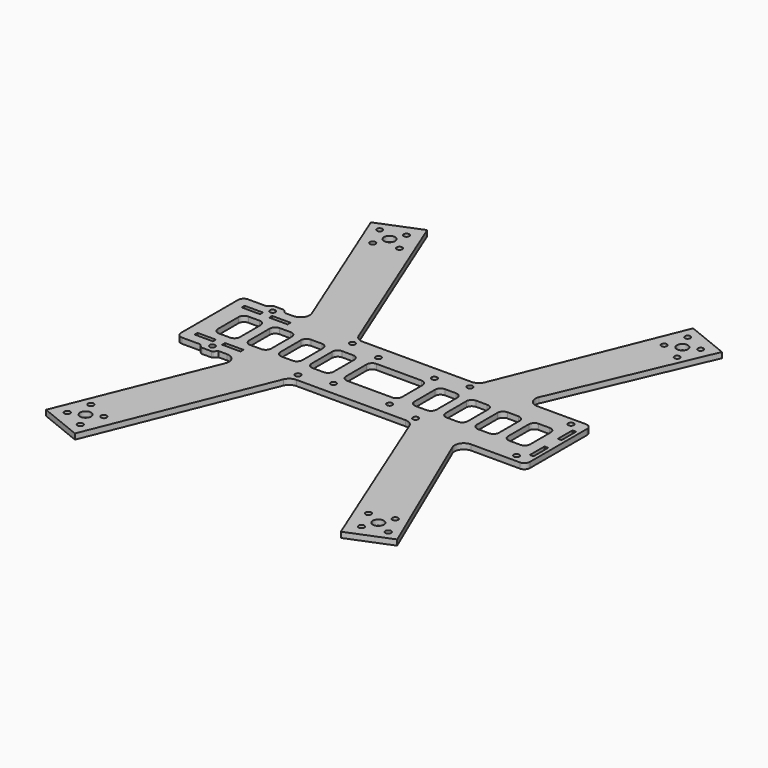
from build123d import *

# Parameters (mm, degrees)
F0_R     = 1.55
F0_R_2   = 3
F0_W     = 10
F0_H     = 2
F0_R_3   = 1.5
F0_W_2   = 2
F0_H_2   = 10
F1_DEPTH = 3


with BuildPart() as f1:
    # F0 (on Top) → F1 (new body)
    with BuildSketch(Plane.XY):
        with BuildLine():
            ThreePointArc((3, 45), (0.87868, 44.12132), (0, 42))
            Line((0, 42), (0, 3))
            ThreePointArc((0, 3), (0.87868, 0.87868), (3, 0))
            Line((3, 0), (13, 0))
            Line((13, 0), (14.707107, -1.707107))
            ThreePointArc((14.707107, -1.707107), (15.03153, -1.92388), (15.414214, -2))
            Line((15.414214, -2), (20.585786, -2))
            ThreePointArc((20.585786, -2), (20.96847, -1.92388), (21.292893, -1.707107))
            Line((21.292893, -1.707107), (23, 0))
            Line((23, 0), (27.587195, 0))
            ThreePointArc((27.587195, 0), (31.732383, -2.204035), (32.223114, -6.873033))
            Line((32.223114, -6.873033), (-0.54992, -87.98914))
            Line((-0.54992, -87.98914), (22.629676, -97.354305))
            Line((22.629676, -97.354305), (60.699992, -3.126967))
            ThreePointArc((60.699992, -3.126967), (62.539947, -0.854812), (65.335911, 0))
            Line((65.335911, 0), (124.664089, 0))
            ThreePointArc((124.664089, 0), (127.460053, -0.854812), (129.300008, -3.126967))
            Line((129.300008, -3.126967), (167.370324, -97.354305))
            Line((167.370324, -97.354305), (190.54992, -87.98914))
            Line((190.54992, -87.98914), (155.834757, -6.96923))
            ThreePointArc((155.834757, -6.96923), (156.256544, -2.247378), (160.430639, 0))
            Line((160.430639, 0), (187, 0))
            ThreePointArc((187, 0), (189.12132, 0.87868), (190, 3))
            Line((190, 3), (190, 42))
            ThreePointArc((190, 42), (189.12132, 44.12132), (187, 45))
            Line((187, 45), (160.430639, 45))
            ThreePointArc((160.430639, 45), (156.256544, 47.247378), (155.834757, 51.96923))
            Line((155.834757, 51.96923), (190.54992, 132.98914))
            Line((190.54992, 132.98914), (167.370324, 142.354305))
            Line((167.370324, 142.354305), (129.300008, 48.126967))
            ThreePointArc((129.300008, 48.126967), (127.460053, 45.854812), (124.664089, 45))
            Line((124.664089, 45), (65.335911, 45))
            ThreePointArc((65.335911, 45), (62.539947, 45.854812), (60.699992, 48.126967))
            Line((60.699992, 48.126967), (22.629676, 142.354305))
            Line((22.629676, 142.354305), (-0.54992, 132.98914))
            Line((-0.54992, 132.98914), (32.223114, 51.873033))
            ThreePointArc((32.223114, 51.873033), (31.732383, 47.204035), (27.587195, 45))
            Line((27.587195, 45), (23, 45))
            Line((23, 45), (21.292893, 46.707107))
            ThreePointArc((21.292893, 46.707107), (20.96847, 46.92388), (20.585786, 47))
            Line((20.585786, 47), (15.414214, 47))
            ThreePointArc((15.414214, 47), (15.03153, 46.92388), (14.707107, 46.707107))
            Line((14.707107, 46.707107), (13, 45))
            Line((13, 45), (3, 45))
        make_face()
        with Locations((8.064668, -84.306511)):
            Circle(F0_R, mode=Mode.SUBTRACT)
        with Locations((19.330003, -89.535489)):
            Circle(F0_R, mode=Mode.SUBTRACT)
        with Locations((11.300256, -72.315641)):
            Circle(F0_R, mode=Mode.SUBTRACT)
        with Locations((15.31513, -80.925565)):
            Circle(F0_R_2, mode=Mode.SUBTRACT)
        with Locations((22.565592, -77.544618)):
            Circle(F0_R, mode=Mode.SUBTRACT)
        with Locations((10.5, 6.5)):
            Rectangle(F0_W, F0_H, mode=Mode.SUBTRACT)
        with Locations((18, 2)):
            Circle(F0_R_3, mode=Mode.SUBTRACT)
        with Locations((25.5, 6.5)):
            Rectangle(F0_W, F0_H, mode=Mode.SUBTRACT)
        with Locations((63, 4)):
            Circle(F0_R_3, mode=Mode.SUBTRACT)
        with Locations((79.75, 7.25)):
            Circle(F0_R_3, mode=Mode.SUBTRACT)
        with Locations((166.074946, -76.910691)):
            Circle(F0_R, mode=Mode.SUBTRACT)
        with Locations((171.303924, -88.176027)):
            Circle(F0_R, mode=Mode.SUBTRACT)
        with Locations((183.294794, -84.940438)):
            Circle(F0_R, mode=Mode.SUBTRACT)
        with Locations((174.68487, -80.925565)):
            Circle(F0_R_2, mode=Mode.SUBTRACT)
        with Locations((178.065816, -73.675102)):
            Circle(F0_R, mode=Mode.SUBTRACT)
        with Locations((110.25, 7.25)):
            Circle(F0_R_3, mode=Mode.SUBTRACT)
        with Locations((127, 4)):
            Circle(F0_R_3, mode=Mode.SUBTRACT)
        with Locations((182, 4)):
            Circle(F0_R_3, mode=Mode.SUBTRACT)
        with Locations((187, 13)):
            Rectangle(F0_W_2, F0_H_2, mode=Mode.SUBTRACT)
        with BuildLine():
            Line((22, 29.75), (22, 15.75))
            ThreePointArc((22, 15.75), (21.12132, 13.62868), (19, 12.75))
            Line((19, 12.75), (13, 12.75))
            ThreePointArc((13, 12.75), (10.87868, 13.62868), (10, 15.75))
            Line((10, 15.75), (10, 29.75))
            ThreePointArc((10, 29.75), (10.87868, 31.87132), (13, 32.75))
            Line((13, 32.75), (19, 32.75))
            ThreePointArc((19, 32.75), (21.12132, 31.87132), (22, 29.75))
        make_face(mode=Mode.SUBTRACT)
        with Locations((10.5, 38.5)):
            Rectangle(F0_W, F0_H, mode=Mode.SUBTRACT)
        with Locations((18, 43)):
            Circle(F0_R_3, mode=Mode.SUBTRACT)
        with BuildLine():
            Line((39, 29.75), (39, 15.75))
            ThreePointArc((39, 15.75), (38.12132, 13.62868), (36, 12.75))
            Line((36, 12.75), (30, 12.75))
            ThreePointArc((30, 12.75), (27.87868, 13.62868), (27, 15.75))
            Line((27, 15.75), (27, 29.75))
            ThreePointArc((27, 29.75), (27.87868, 31.87132), (30, 32.75))
            Line((30, 32.75), (36, 32.75))
            ThreePointArc((36, 32.75), (38.12132, 31.87132), (39, 29.75))
        make_face(mode=Mode.SUBTRACT)
        with Locations((25.5, 38.5)):
            Rectangle(F0_W, F0_H, mode=Mode.SUBTRACT)
        with BuildLine():
            Line((44, 15.75), (44, 29.75))
            ThreePointArc((44, 29.75), (44.87868, 31.87132), (47, 32.75))
            Line((47, 32.75), (53, 32.75))
            ThreePointArc((53, 32.75), (55.12132, 31.87132), (56, 29.75))
            Line((56, 29.75), (56, 15.75))
            ThreePointArc((56, 15.75), (55.12132, 13.62868), (53, 12.75))
            Line((53, 12.75), (47, 12.75))
            ThreePointArc((47, 12.75), (44.87868, 13.62868), (44, 15.75))
        make_face(mode=Mode.SUBTRACT)
        with BuildLine():
            Line((61, 15.75), (61, 29.75))
            ThreePointArc((61, 29.75), (61.87868, 31.87132), (64, 32.75))
            Line((64, 32.75), (70, 32.75))
            ThreePointArc((70, 32.75), (72.12132, 31.87132), (73, 29.75))
            Line((73, 29.75), (73, 15.75))
            ThreePointArc((73, 15.75), (72.12132, 13.62868), (70, 12.75))
            Line((70, 12.75), (64, 12.75))
            ThreePointArc((64, 12.75), (61.87868, 13.62868), (61, 15.75))
        make_face(mode=Mode.SUBTRACT)
        with Locations((63, 41)):
            Circle(F0_R_3, mode=Mode.SUBTRACT)
        with Locations((79.75, 37.75)):
            Circle(F0_R_3, mode=Mode.SUBTRACT)
        with Locations((11.934184, 118.675102)):
            Circle(F0_R_3, mode=Mode.SUBTRACT)
        with Locations((15.31513, 125.925565)):
            Circle(F0_R_2, mode=Mode.SUBTRACT)
        with Locations((6.705206, 129.940438)):
            Circle(F0_R_3, mode=Mode.SUBTRACT)
        with Locations((18.696076, 133.176027)):
            Circle(F0_R_3, mode=Mode.SUBTRACT)
        with Locations((23.925054, 121.910691)):
            Circle(F0_R_3, mode=Mode.SUBTRACT)
        with BuildLine():
            ThreePointArc((110.25, 15.75), (109.37132, 13.62868), (107.25, 12.75))
            Line((107.25, 12.75), (82.75, 12.75))
            ThreePointArc((82.75, 12.75), (80.62868, 13.62868), (79.75, 15.75))
            Line((79.75, 15.75), (79.75, 29.75))
            ThreePointArc((79.75, 29.75), (80.62868, 31.87132), (82.75, 32.75))
            Line((82.75, 32.75), (107.25, 32.75))
            ThreePointArc((107.25, 32.75), (109.37132, 31.87132), (110.25, 29.75))
            Line((110.25, 29.75), (110.25, 15.75))
        make_face(mode=Mode.SUBTRACT)
        with Locations((110.25, 37.75)):
            Circle(F0_R_3, mode=Mode.SUBTRACT)
        with BuildLine():
            ThreePointArc((120, 12.75), (117.87868, 13.62868), (117, 15.75))
            Line((117, 15.75), (117, 29.75))
            ThreePointArc((117, 29.75), (117.87868, 31.87132), (120, 32.75))
            Line((120, 32.75), (126, 32.75))
            ThreePointArc((126, 32.75), (128.12132, 31.87132), (129, 29.75))
            Line((129, 29.75), (129, 15.75))
            ThreePointArc((129, 15.75), (128.12132, 13.62868), (126, 12.75))
            Line((126, 12.75), (120, 12.75))
        make_face(mode=Mode.SUBTRACT)
        with BuildLine():
            ThreePointArc((137, 12.75), (134.87868, 13.62868), (134, 15.75))
            Line((134, 15.75), (134, 29.75))
            ThreePointArc((134, 29.75), (134.87868, 31.87132), (137, 32.75))
            Line((137, 32.75), (143, 32.75))
            ThreePointArc((143, 32.75), (145.12132, 31.87132), (146, 29.75))
            Line((146, 29.75), (146, 15.75))
            ThreePointArc((146, 15.75), (145.12132, 13.62868), (143, 12.75))
            Line((143, 12.75), (137, 12.75))
        make_face(mode=Mode.SUBTRACT)
        with Locations((127, 41)):
            Circle(F0_R_3, mode=Mode.SUBTRACT)
        with BuildLine():
            ThreePointArc((154, 12.75), (151.87868, 13.62868), (151, 15.75))
            Line((151, 15.75), (151, 29.75))
            ThreePointArc((151, 29.75), (151.87868, 31.87132), (154, 32.75))
            Line((154, 32.75), (160, 32.75))
            ThreePointArc((160, 32.75), (162.12132, 31.87132), (163, 29.75))
            Line((163, 29.75), (163, 15.75))
            ThreePointArc((163, 15.75), (162.12132, 13.62868), (160, 12.75))
            Line((160, 12.75), (154, 12.75))
        make_face(mode=Mode.SUBTRACT)
        with BuildLine():
            ThreePointArc((180, 15.75), (179.12132, 13.62868), (177, 12.75))
            Line((177, 12.75), (171, 12.75))
            ThreePointArc((171, 12.75), (168.87868, 13.62868), (168, 15.75))
            Line((168, 15.75), (168, 29.75))
            ThreePointArc((168, 29.75), (168.87868, 31.87132), (171, 32.75))
            Line((171, 32.75), (177, 32.75))
            ThreePointArc((177, 32.75), (179.12132, 31.87132), (180, 29.75))
            Line((180, 29.75), (180, 15.75))
        make_face(mode=Mode.SUBTRACT)
        with Locations((187, 32)):
            Rectangle(F0_W_2, F0_H_2, mode=Mode.SUBTRACT)
        with Locations((182, 41)):
            Circle(F0_R_3, mode=Mode.SUBTRACT)
        with Locations((167.434408, 122.544618)):
            Circle(F0_R_3, mode=Mode.SUBTRACT)
        with BuildLine():
            ThreePointArc((177.403793, 127.193419), (177.613758, 126.574883), (177.68487, 125.925565))
            ThreePointArc((177.68487, 125.925565), (171.755982, 125.276246), (177.403793, 127.193419))
        make_face(mode=Mode.SUBTRACT)
        with Locations((178.699744, 117.315641)):
            Circle(F0_R_3, mode=Mode.SUBTRACT)
        with Locations((170.669997, 134.535489)):
            Circle(F0_R_3, mode=Mode.SUBTRACT)
        with BuildLine():
            ThreePointArc((183.435332, 129.306511), (182.259992, 127.842067), (180.575871, 128.672583))
            ThreePointArc((180.575871, 128.672583), (181.610673, 130.770955), (183.435332, 129.306511))
        make_face(mode=Mode.SUBTRACT)
        with BuildLine():
            ThreePointArc((3, 45), (0.87868, 44.12132), (0, 42))
            Line((0, 42), (0, 3))
            ThreePointArc((0, 3), (0.87868, 0.87868), (3, 0))
            Line((3, 0), (13, 0))
            Line((13, 0), (14.707107, -1.707107))
            ThreePointArc((14.707107, -1.707107), (15.03153, -1.92388), (15.414214, -2))
            Line((15.414214, -2), (20.585786, -2))
            ThreePointArc((20.585786, -2), (20.96847, -1.92388), (21.292893, -1.707107))
            Line((21.292893, -1.707107), (23, 0))
            Line((23, 0), (27.587195, 0))
            ThreePointArc((27.587195, 0), (31.732383, -2.204035), (32.223114, -6.873033))
            Line((32.223114, -6.873033), (-0.54992, -87.98914))
            Line((-0.54992, -87.98914), (22.629676, -97.354305))
            Line((22.629676, -97.354305), (60.699992, -3.126967))
            ThreePointArc((60.699992, -3.126967), (62.539947, -0.854812), (65.335911, 0))
            Line((65.335911, 0), (124.664089, 0))
            ThreePointArc((124.664089, 0), (127.460053, -0.854812), (129.300008, -3.126967))
            Line((129.300008, -3.126967), (167.370324, -97.354305))
            Line((167.370324, -97.354305), (190.54992, -87.98914))
            Line((190.54992, -87.98914), (155.834757, -6.96923))
            ThreePointArc((155.834757, -6.96923), (156.256544, -2.247378), (160.430639, 0))
            Line((160.430639, 0), (187, 0))
            ThreePointArc((187, 0), (189.12132, 0.87868), (190, 3))
            Line((190, 3), (190, 42))
            ThreePointArc((190, 42), (189.12132, 44.12132), (187, 45))
            Line((187, 45), (160.430639, 45))
            ThreePointArc((160.430639, 45), (156.256544, 47.247378), (155.834757, 51.96923))
            Line((155.834757, 51.96923), (190.54992, 132.98914))
            Line((190.54992, 132.98914), (167.370324, 142.354305))
            Line((167.370324, 142.354305), (129.300008, 48.126967))
            ThreePointArc((129.300008, 48.126967), (127.460053, 45.854812), (124.664089, 45))
            Line((124.664089, 45), (65.335911, 45))
            ThreePointArc((65.335911, 45), (62.539947, 45.854812), (60.699992, 48.126967))
            Line((60.699992, 48.126967), (22.629676, 142.354305))
            Line((22.629676, 142.354305), (-0.54992, 132.98914))
            Line((-0.54992, 132.98914), (32.223114, 51.873033))
            ThreePointArc((32.223114, 51.873033), (31.732383, 47.204035), (27.587195, 45))
            Line((27.587195, 45), (23, 45))
            Line((23, 45), (21.292893, 46.707107))
            ThreePointArc((21.292893, 46.707107), (20.96847, 46.92388), (20.585786, 47))
            Line((20.585786, 47), (15.414214, 47))
            ThreePointArc((15.414214, 47), (15.03153, 46.92388), (14.707107, 46.707107))
            Line((14.707107, 46.707107), (13, 45))
            Line((13, 45), (3, 45))
        make_face()
        with Locations((8.064668, -84.306511)):
            Circle(F0_R, mode=Mode.SUBTRACT)
        with Locations((19.330003, -89.535489)):
            Circle(F0_R, mode=Mode.SUBTRACT)
        with Locations((11.300256, -72.315641)):
            Circle(F0_R, mode=Mode.SUBTRACT)
        with Locations((15.31513, -80.925565)):
            Circle(F0_R_2, mode=Mode.SUBTRACT)
        with Locations((22.565592, -77.544618)):
            Circle(F0_R, mode=Mode.SUBTRACT)
        with Locations((10.5, 6.5)):
            Rectangle(F0_W, F0_H, mode=Mode.SUBTRACT)
        with Locations((18, 2)):
            Circle(F0_R_3, mode=Mode.SUBTRACT)
        with Locations((25.5, 6.5)):
            Rectangle(F0_W, F0_H, mode=Mode.SUBTRACT)
        with Locations((63, 4)):
            Circle(F0_R_3, mode=Mode.SUBTRACT)
        with Locations((79.75, 7.25)):
            Circle(F0_R_3, mode=Mode.SUBTRACT)
        with Locations((166.074946, -76.910691)):
            Circle(F0_R, mode=Mode.SUBTRACT)
        with Locations((171.303924, -88.176027)):
            Circle(F0_R, mode=Mode.SUBTRACT)
        with Locations((183.294794, -84.940438)):
            Circle(F0_R, mode=Mode.SUBTRACT)
        with Locations((174.68487, -80.925565)):
            Circle(F0_R_2, mode=Mode.SUBTRACT)
        with Locations((178.065816, -73.675102)):
            Circle(F0_R, mode=Mode.SUBTRACT)
        with Locations((110.25, 7.25)):
            Circle(F0_R_3, mode=Mode.SUBTRACT)
        with Locations((127, 4)):
            Circle(F0_R_3, mode=Mode.SUBTRACT)
        with Locations((182, 4)):
            Circle(F0_R_3, mode=Mode.SUBTRACT)
        with Locations((187, 13)):
            Rectangle(F0_W_2, F0_H_2, mode=Mode.SUBTRACT)
        with BuildLine():
            Line((22, 29.75), (22, 15.75))
            ThreePointArc((22, 15.75), (21.12132, 13.62868), (19, 12.75))
            Line((19, 12.75), (13, 12.75))
            ThreePointArc((13, 12.75), (10.87868, 13.62868), (10, 15.75))
            Line((10, 15.75), (10, 29.75))
            ThreePointArc((10, 29.75), (10.87868, 31.87132), (13, 32.75))
            Line((13, 32.75), (19, 32.75))
            ThreePointArc((19, 32.75), (21.12132, 31.87132), (22, 29.75))
        make_face(mode=Mode.SUBTRACT)
        with Locations((10.5, 38.5)):
            Rectangle(F0_W, F0_H, mode=Mode.SUBTRACT)
        with Locations((18, 43)):
            Circle(F0_R_3, mode=Mode.SUBTRACT)
        with BuildLine():
            Line((39, 29.75), (39, 15.75))
            ThreePointArc((39, 15.75), (38.12132, 13.62868), (36, 12.75))
            Line((36, 12.75), (30, 12.75))
            ThreePointArc((30, 12.75), (27.87868, 13.62868), (27, 15.75))
            Line((27, 15.75), (27, 29.75))
            ThreePointArc((27, 29.75), (27.87868, 31.87132), (30, 32.75))
            Line((30, 32.75), (36, 32.75))
            ThreePointArc((36, 32.75), (38.12132, 31.87132), (39, 29.75))
        make_face(mode=Mode.SUBTRACT)
        with Locations((25.5, 38.5)):
            Rectangle(F0_W, F0_H, mode=Mode.SUBTRACT)
        with BuildLine():
            Line((44, 15.75), (44, 29.75))
            ThreePointArc((44, 29.75), (44.87868, 31.87132), (47, 32.75))
            Line((47, 32.75), (53, 32.75))
            ThreePointArc((53, 32.75), (55.12132, 31.87132), (56, 29.75))
            Line((56, 29.75), (56, 15.75))
            ThreePointArc((56, 15.75), (55.12132, 13.62868), (53, 12.75))
            Line((53, 12.75), (47, 12.75))
            ThreePointArc((47, 12.75), (44.87868, 13.62868), (44, 15.75))
        make_face(mode=Mode.SUBTRACT)
        with BuildLine():
            Line((61, 15.75), (61, 29.75))
            ThreePointArc((61, 29.75), (61.87868, 31.87132), (64, 32.75))
            Line((64, 32.75), (70, 32.75))
            ThreePointArc((70, 32.75), (72.12132, 31.87132), (73, 29.75))
            Line((73, 29.75), (73, 15.75))
            ThreePointArc((73, 15.75), (72.12132, 13.62868), (70, 12.75))
            Line((70, 12.75), (64, 12.75))
            ThreePointArc((64, 12.75), (61.87868, 13.62868), (61, 15.75))
        make_face(mode=Mode.SUBTRACT)
        with Locations((63, 41)):
            Circle(F0_R_3, mode=Mode.SUBTRACT)
        with Locations((79.75, 37.75)):
            Circle(F0_R_3, mode=Mode.SUBTRACT)
        with Locations((11.934184, 118.675102)):
            Circle(F0_R_3, mode=Mode.SUBTRACT)
        with Locations((15.31513, 125.925565)):
            Circle(F0_R_2, mode=Mode.SUBTRACT)
        with Locations((6.705206, 129.940438)):
            Circle(F0_R_3, mode=Mode.SUBTRACT)
        with Locations((18.696076, 133.176027)):
            Circle(F0_R_3, mode=Mode.SUBTRACT)
        with Locations((23.925054, 121.910691)):
            Circle(F0_R_3, mode=Mode.SUBTRACT)
        with BuildLine():
            ThreePointArc((110.25, 15.75), (109.37132, 13.62868), (107.25, 12.75))
            Line((107.25, 12.75), (82.75, 12.75))
            ThreePointArc((82.75, 12.75), (80.62868, 13.62868), (79.75, 15.75))
            Line((79.75, 15.75), (79.75, 29.75))
            ThreePointArc((79.75, 29.75), (80.62868, 31.87132), (82.75, 32.75))
            Line((82.75, 32.75), (107.25, 32.75))
            ThreePointArc((107.25, 32.75), (109.37132, 31.87132), (110.25, 29.75))
            Line((110.25, 29.75), (110.25, 15.75))
        make_face(mode=Mode.SUBTRACT)
        with Locations((110.25, 37.75)):
            Circle(F0_R_3, mode=Mode.SUBTRACT)
        with BuildLine():
            ThreePointArc((120, 12.75), (117.87868, 13.62868), (117, 15.75))
            Line((117, 15.75), (117, 29.75))
            ThreePointArc((117, 29.75), (117.87868, 31.87132), (120, 32.75))
            Line((120, 32.75), (126, 32.75))
            ThreePointArc((126, 32.75), (128.12132, 31.87132), (129, 29.75))
            Line((129, 29.75), (129, 15.75))
            ThreePointArc((129, 15.75), (128.12132, 13.62868), (126, 12.75))
            Line((126, 12.75), (120, 12.75))
        make_face(mode=Mode.SUBTRACT)
        with BuildLine():
            ThreePointArc((137, 12.75), (134.87868, 13.62868), (134, 15.75))
            Line((134, 15.75), (134, 29.75))
            ThreePointArc((134, 29.75), (134.87868, 31.87132), (137, 32.75))
            Line((137, 32.75), (143, 32.75))
            ThreePointArc((143, 32.75), (145.12132, 31.87132), (146, 29.75))
            Line((146, 29.75), (146, 15.75))
            ThreePointArc((146, 15.75), (145.12132, 13.62868), (143, 12.75))
            Line((143, 12.75), (137, 12.75))
        make_face(mode=Mode.SUBTRACT)
        with Locations((127, 41)):
            Circle(F0_R_3, mode=Mode.SUBTRACT)
        with BuildLine():
            ThreePointArc((154, 12.75), (151.87868, 13.62868), (151, 15.75))
            Line((151, 15.75), (151, 29.75))
            ThreePointArc((151, 29.75), (151.87868, 31.87132), (154, 32.75))
            Line((154, 32.75), (160, 32.75))
            ThreePointArc((160, 32.75), (162.12132, 31.87132), (163, 29.75))
            Line((163, 29.75), (163, 15.75))
            ThreePointArc((163, 15.75), (162.12132, 13.62868), (160, 12.75))
            Line((160, 12.75), (154, 12.75))
        make_face(mode=Mode.SUBTRACT)
        with BuildLine():
            ThreePointArc((180, 15.75), (179.12132, 13.62868), (177, 12.75))
            Line((177, 12.75), (171, 12.75))
            ThreePointArc((171, 12.75), (168.87868, 13.62868), (168, 15.75))
            Line((168, 15.75), (168, 29.75))
            ThreePointArc((168, 29.75), (168.87868, 31.87132), (171, 32.75))
            Line((171, 32.75), (177, 32.75))
            ThreePointArc((177, 32.75), (179.12132, 31.87132), (180, 29.75))
            Line((180, 29.75), (180, 15.75))
        make_face(mode=Mode.SUBTRACT)
        with Locations((187, 32)):
            Rectangle(F0_W_2, F0_H_2, mode=Mode.SUBTRACT)
        with Locations((182, 41)):
            Circle(F0_R_3, mode=Mode.SUBTRACT)
        with Locations((167.434408, 122.544618)):
            Circle(F0_R_3, mode=Mode.SUBTRACT)
        with BuildLine():
            ThreePointArc((177.403793, 127.193419), (177.613758, 126.574883), (177.68487, 125.925565))
            ThreePointArc((177.68487, 125.925565), (171.755982, 125.276246), (177.403793, 127.193419))
        make_face(mode=Mode.SUBTRACT)
        with Locations((178.699744, 117.315641)):
            Circle(F0_R_3, mode=Mode.SUBTRACT)
        with Locations((170.669997, 134.535489)):
            Circle(F0_R_3, mode=Mode.SUBTRACT)
        with BuildLine():
            ThreePointArc((183.435332, 129.306511), (182.259992, 127.842067), (180.575871, 128.672583))
            ThreePointArc((180.575871, 128.672583), (181.610673, 130.770955), (183.435332, 129.306511))
        make_face(mode=Mode.SUBTRACT)
        with BuildLine():
            ThreePointArc((3, 45), (0.87868, 44.12132), (0, 42))
            Line((0, 42), (0, 3))
            ThreePointArc((0, 3), (0.87868, 0.87868), (3, 0))
            Line((3, 0), (13, 0))
            Line((13, 0), (14.707107, -1.707107))
            ThreePointArc((14.707107, -1.707107), (15.03153, -1.92388), (15.414214, -2))
            Line((15.414214, -2), (20.585786, -2))
            ThreePointArc((20.585786, -2), (20.96847, -1.92388), (21.292893, -1.707107))
            Line((21.292893, -1.707107), (23, 0))
            Line((23, 0), (27.587195, 0))
            ThreePointArc((27.587195, 0), (31.732383, -2.204035), (32.223114, -6.873033))
            Line((32.223114, -6.873033), (-0.54992, -87.98914))
            Line((-0.54992, -87.98914), (22.629676, -97.354305))
            Line((22.629676, -97.354305), (60.699992, -3.126967))
            ThreePointArc((60.699992, -3.126967), (62.539947, -0.854812), (65.335911, 0))
            Line((65.335911, 0), (124.664089, 0))
            ThreePointArc((124.664089, 0), (127.460053, -0.854812), (129.300008, -3.126967))
            Line((129.300008, -3.126967), (167.370324, -97.354305))
            Line((167.370324, -97.354305), (190.54992, -87.98914))
            Line((190.54992, -87.98914), (155.834757, -6.96923))
            ThreePointArc((155.834757, -6.96923), (156.256544, -2.247378), (160.430639, 0))
            Line((160.430639, 0), (187, 0))
            ThreePointArc((187, 0), (189.12132, 0.87868), (190, 3))
            Line((190, 3), (190, 42))
            ThreePointArc((190, 42), (189.12132, 44.12132), (187, 45))
            Line((187, 45), (160.430639, 45))
            ThreePointArc((160.430639, 45), (156.256544, 47.247378), (155.834757, 51.96923))
            Line((155.834757, 51.96923), (190.54992, 132.98914))
            Line((190.54992, 132.98914), (167.370324, 142.354305))
            Line((167.370324, 142.354305), (129.300008, 48.126967))
            ThreePointArc((129.300008, 48.126967), (127.460053, 45.854812), (124.664089, 45))
            Line((124.664089, 45), (65.335911, 45))
            ThreePointArc((65.335911, 45), (62.539947, 45.854812), (60.699992, 48.126967))
            Line((60.699992, 48.126967), (22.629676, 142.354305))
            Line((22.629676, 142.354305), (-0.54992, 132.98914))
            Line((-0.54992, 132.98914), (32.223114, 51.873033))
            ThreePointArc((32.223114, 51.873033), (31.732383, 47.204035), (27.587195, 45))
            Line((27.587195, 45), (23, 45))
            Line((23, 45), (21.292893, 46.707107))
            ThreePointArc((21.292893, 46.707107), (20.96847, 46.92388), (20.585786, 47))
            Line((20.585786, 47), (15.414214, 47))
            ThreePointArc((15.414214, 47), (15.03153, 46.92388), (14.707107, 46.707107))
            Line((14.707107, 46.707107), (13, 45))
            Line((13, 45), (3, 45))
        make_face()
        with Locations((8.064668, -84.306511)):
            Circle(F0_R, mode=Mode.SUBTRACT)
        with Locations((19.330003, -89.535489)):
            Circle(F0_R, mode=Mode.SUBTRACT)
        with Locations((11.300256, -72.315641)):
            Circle(F0_R, mode=Mode.SUBTRACT)
        with Locations((15.31513, -80.925565)):
            Circle(F0_R_2, mode=Mode.SUBTRACT)
        with Locations((22.565592, -77.544618)):
            Circle(F0_R, mode=Mode.SUBTRACT)
        with Locations((10.5, 6.5)):
            Rectangle(F0_W, F0_H, mode=Mode.SUBTRACT)
        with Locations((18, 2)):
            Circle(F0_R_3, mode=Mode.SUBTRACT)
        with Locations((25.5, 6.5)):
            Rectangle(F0_W, F0_H, mode=Mode.SUBTRACT)
        with Locations((63, 4)):
            Circle(F0_R_3, mode=Mode.SUBTRACT)
        with Locations((79.75, 7.25)):
            Circle(F0_R_3, mode=Mode.SUBTRACT)
        with Locations((166.074946, -76.910691)):
            Circle(F0_R, mode=Mode.SUBTRACT)
        with Locations((171.303924, -88.176027)):
            Circle(F0_R, mode=Mode.SUBTRACT)
        with Locations((183.294794, -84.940438)):
            Circle(F0_R, mode=Mode.SUBTRACT)
        with Locations((174.68487, -80.925565)):
            Circle(F0_R_2, mode=Mode.SUBTRACT)
        with Locations((178.065816, -73.675102)):
            Circle(F0_R, mode=Mode.SUBTRACT)
        with Locations((110.25, 7.25)):
            Circle(F0_R_3, mode=Mode.SUBTRACT)
        with Locations((127, 4)):
            Circle(F0_R_3, mode=Mode.SUBTRACT)
        with Locations((182, 4)):
            Circle(F0_R_3, mode=Mode.SUBTRACT)
        with Locations((187, 13)):
            Rectangle(F0_W_2, F0_H_2, mode=Mode.SUBTRACT)
        with BuildLine():
            Line((22, 29.75), (22, 15.75))
            ThreePointArc((22, 15.75), (21.12132, 13.62868), (19, 12.75))
            Line((19, 12.75), (13, 12.75))
            ThreePointArc((13, 12.75), (10.87868, 13.62868), (10, 15.75))
            Line((10, 15.75), (10, 29.75))
            ThreePointArc((10, 29.75), (10.87868, 31.87132), (13, 32.75))
            Line((13, 32.75), (19, 32.75))
            ThreePointArc((19, 32.75), (21.12132, 31.87132), (22, 29.75))
        make_face(mode=Mode.SUBTRACT)
        with Locations((10.5, 38.5)):
            Rectangle(F0_W, F0_H, mode=Mode.SUBTRACT)
        with Locations((18, 43)):
            Circle(F0_R_3, mode=Mode.SUBTRACT)
        with BuildLine():
            Line((39, 29.75), (39, 15.75))
            ThreePointArc((39, 15.75), (38.12132, 13.62868), (36, 12.75))
            Line((36, 12.75), (30, 12.75))
            ThreePointArc((30, 12.75), (27.87868, 13.62868), (27, 15.75))
            Line((27, 15.75), (27, 29.75))
            ThreePointArc((27, 29.75), (27.87868, 31.87132), (30, 32.75))
            Line((30, 32.75), (36, 32.75))
            ThreePointArc((36, 32.75), (38.12132, 31.87132), (39, 29.75))
        make_face(mode=Mode.SUBTRACT)
        with Locations((25.5, 38.5)):
            Rectangle(F0_W, F0_H, mode=Mode.SUBTRACT)
        with BuildLine():
            Line((44, 15.75), (44, 29.75))
            ThreePointArc((44, 29.75), (44.87868, 31.87132), (47, 32.75))
            Line((47, 32.75), (53, 32.75))
            ThreePointArc((53, 32.75), (55.12132, 31.87132), (56, 29.75))
            Line((56, 29.75), (56, 15.75))
            ThreePointArc((56, 15.75), (55.12132, 13.62868), (53, 12.75))
            Line((53, 12.75), (47, 12.75))
            ThreePointArc((47, 12.75), (44.87868, 13.62868), (44, 15.75))
        make_face(mode=Mode.SUBTRACT)
        with BuildLine():
            Line((61, 15.75), (61, 29.75))
            ThreePointArc((61, 29.75), (61.87868, 31.87132), (64, 32.75))
            Line((64, 32.75), (70, 32.75))
            ThreePointArc((70, 32.75), (72.12132, 31.87132), (73, 29.75))
            Line((73, 29.75), (73, 15.75))
            ThreePointArc((73, 15.75), (72.12132, 13.62868), (70, 12.75))
            Line((70, 12.75), (64, 12.75))
            ThreePointArc((64, 12.75), (61.87868, 13.62868), (61, 15.75))
        make_face(mode=Mode.SUBTRACT)
        with Locations((63, 41)):
            Circle(F0_R_3, mode=Mode.SUBTRACT)
        with Locations((79.75, 37.75)):
            Circle(F0_R_3, mode=Mode.SUBTRACT)
        with Locations((11.934184, 118.675102)):
            Circle(F0_R_3, mode=Mode.SUBTRACT)
        with Locations((15.31513, 125.925565)):
            Circle(F0_R_2, mode=Mode.SUBTRACT)
        with Locations((6.705206, 129.940438)):
            Circle(F0_R_3, mode=Mode.SUBTRACT)
        with Locations((18.696076, 133.176027)):
            Circle(F0_R_3, mode=Mode.SUBTRACT)
        with Locations((23.925054, 121.910691)):
            Circle(F0_R_3, mode=Mode.SUBTRACT)
        with BuildLine():
            ThreePointArc((110.25, 15.75), (109.37132, 13.62868), (107.25, 12.75))
            Line((107.25, 12.75), (82.75, 12.75))
            ThreePointArc((82.75, 12.75), (80.62868, 13.62868), (79.75, 15.75))
            Line((79.75, 15.75), (79.75, 29.75))
            ThreePointArc((79.75, 29.75), (80.62868, 31.87132), (82.75, 32.75))
            Line((82.75, 32.75), (107.25, 32.75))
            ThreePointArc((107.25, 32.75), (109.37132, 31.87132), (110.25, 29.75))
            Line((110.25, 29.75), (110.25, 15.75))
        make_face(mode=Mode.SUBTRACT)
        with Locations((110.25, 37.75)):
            Circle(F0_R_3, mode=Mode.SUBTRACT)
        with BuildLine():
            ThreePointArc((120, 12.75), (117.87868, 13.62868), (117, 15.75))
            Line((117, 15.75), (117, 29.75))
            ThreePointArc((117, 29.75), (117.87868, 31.87132), (120, 32.75))
            Line((120, 32.75), (126, 32.75))
            ThreePointArc((126, 32.75), (128.12132, 31.87132), (129, 29.75))
            Line((129, 29.75), (129, 15.75))
            ThreePointArc((129, 15.75), (128.12132, 13.62868), (126, 12.75))
            Line((126, 12.75), (120, 12.75))
        make_face(mode=Mode.SUBTRACT)
        with BuildLine():
            ThreePointArc((137, 12.75), (134.87868, 13.62868), (134, 15.75))
            Line((134, 15.75), (134, 29.75))
            ThreePointArc((134, 29.75), (134.87868, 31.87132), (137, 32.75))
            Line((137, 32.75), (143, 32.75))
            ThreePointArc((143, 32.75), (145.12132, 31.87132), (146, 29.75))
            Line((146, 29.75), (146, 15.75))
            ThreePointArc((146, 15.75), (145.12132, 13.62868), (143, 12.75))
            Line((143, 12.75), (137, 12.75))
        make_face(mode=Mode.SUBTRACT)
        with Locations((127, 41)):
            Circle(F0_R_3, mode=Mode.SUBTRACT)
        with BuildLine():
            ThreePointArc((154, 12.75), (151.87868, 13.62868), (151, 15.75))
            Line((151, 15.75), (151, 29.75))
            ThreePointArc((151, 29.75), (151.87868, 31.87132), (154, 32.75))
            Line((154, 32.75), (160, 32.75))
            ThreePointArc((160, 32.75), (162.12132, 31.87132), (163, 29.75))
            Line((163, 29.75), (163, 15.75))
            ThreePointArc((163, 15.75), (162.12132, 13.62868), (160, 12.75))
            Line((160, 12.75), (154, 12.75))
        make_face(mode=Mode.SUBTRACT)
        with BuildLine():
            ThreePointArc((180, 15.75), (179.12132, 13.62868), (177, 12.75))
            Line((177, 12.75), (171, 12.75))
            ThreePointArc((171, 12.75), (168.87868, 13.62868), (168, 15.75))
            Line((168, 15.75), (168, 29.75))
            ThreePointArc((168, 29.75), (168.87868, 31.87132), (171, 32.75))
            Line((171, 32.75), (177, 32.75))
            ThreePointArc((177, 32.75), (179.12132, 31.87132), (180, 29.75))
            Line((180, 29.75), (180, 15.75))
        make_face(mode=Mode.SUBTRACT)
        with Locations((187, 32)):
            Rectangle(F0_W_2, F0_H_2, mode=Mode.SUBTRACT)
        with Locations((182, 41)):
            Circle(F0_R_3, mode=Mode.SUBTRACT)
        with Locations((167.434408, 122.544618)):
            Circle(F0_R_3, mode=Mode.SUBTRACT)
        with BuildLine():
            ThreePointArc((177.403793, 127.193419), (177.613758, 126.574883), (177.68487, 125.925565))
            ThreePointArc((177.68487, 125.925565), (171.755982, 125.276246), (177.403793, 127.193419))
        make_face(mode=Mode.SUBTRACT)
        with Locations((178.699744, 117.315641)):
            Circle(F0_R_3, mode=Mode.SUBTRACT)
        with Locations((170.669997, 134.535489)):
            Circle(F0_R_3, mode=Mode.SUBTRACT)
        with BuildLine():
            ThreePointArc((183.435332, 129.306511), (182.259992, 127.842067), (180.575871, 128.672583))
            ThreePointArc((180.575871, 128.672583), (181.610673, 130.770955), (183.435332, 129.306511))
        make_face(mode=Mode.SUBTRACT)
    extrude(amount=F1_DEPTH)


solid = f1.part
